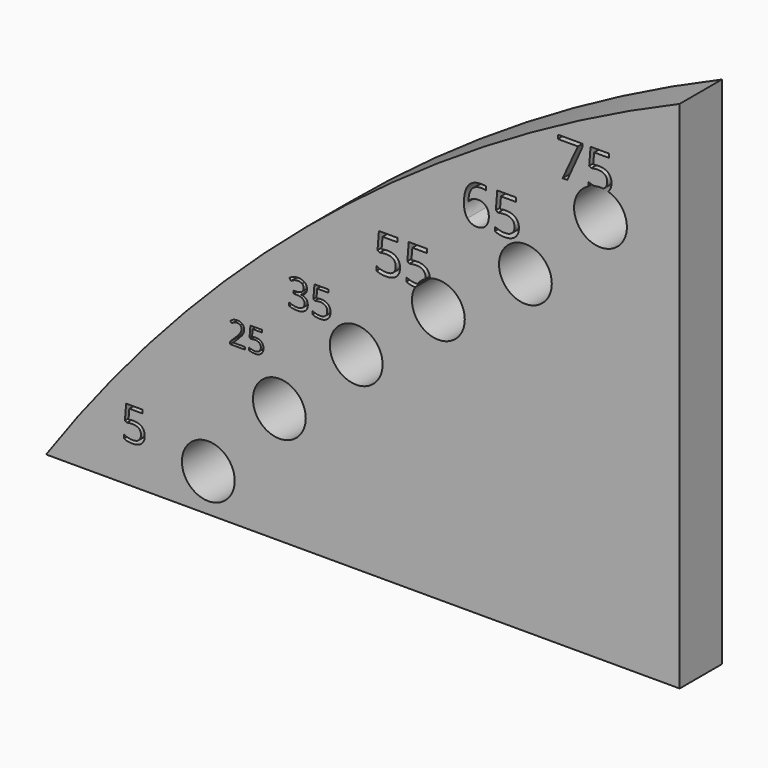
from build123d import *

# Parameters (mm, degrees)
F0_R     = 12.7
F1_DEPTH = 25.4


with BuildPart() as f1:
    # F0 (on Front) → F1 (new body)
    with BuildSketch(Plane.XZ):
        with BuildLine():
            Line((71.2218557991, -215.6666109828), (71.2218557991, 31.9377261585))
            ThreePointArc((71.2218557991, 31.9377261585), (-98.5594549429, -70.468114806), (-233.5781442009, -215.6666109828))
            Line((-233.5781442009, -215.6666109828), (71.2218557991, -215.6666109828))
        make_face()
        with BuildLine():
            add(Edge.make_bspline(
                [(-193.9291519359, -187.9756820696), (-192.6907105088, -187.7273038446), (-191.4591684768, -187.7273038446)],
                knots=[0, 0, 0, 1, 1, 1], degree=2))
            add(Edge.make_bspline(
                [(-191.4591684768, -187.7273038446), (-188.9684868323, -187.7273038446), (-187.5403120388, -188.9622955742)],
                knots=[0, 0, 0, 1, 1, 1], degree=2))
            add(Edge.make_bspline(
                [(-187.5403120388, -188.9622955742), (-186.1121372454, -190.1972873038), (-186.1121372454, -192.3429991914)],
                knots=[0, 0, 0, 1, 1, 1], degree=2))
            add(Edge.make_bspline(
                [(-186.1121372454, -192.3429991914), (-186.1121372454, -194.7888347676), (-187.6696756977, -196.1807877365)],
                knots=[0, 0, 0, 1, 1, 1], degree=2))
            add(Edge.make_bspline(
                [(-187.6696756977, -196.1807877365), (-189.2272141499, -197.5727407054), (-191.9662740194, -197.5727407054)],
                knots=[0, 0, 0, 1, 1, 1], degree=2))
            add(Edge.make_bspline(
                [(-191.9662740194, -197.5727407054), (-194.6294405423, -197.5727407054), (-196.0300177552, -196.720665406)],
                knots=[0, 0, 0, 1, 1, 1], degree=2))
            Line((-196.0300177552, -196.720665406), (-196.0300177552, -194.9958166217))
            add(Edge.make_bspline(
                [(-196.0300177552, -194.9958166217), (-195.2779836852, -195.4787742813), (-194.1568319754, -195.7547500868)],
                knots=[0, 0, 0, 1, 1, 1], degree=2))
            add(Edge.make_bspline(
                [(-194.1568319754, -195.7547500868), (-193.0356802656, -196.0307258923), (-191.945575834, -196.0307258923)],
                knots=[0, 0, 0, 1, 1, 1], degree=2))
            add(Edge.make_bspline(
                [(-191.945575834, -196.0307258923), (-190.0482421712, -196.0307258923), (-188.9978092616, -195.1355293732)],
                knots=[0, 0, 0, 1, 1, 1], degree=2))
            add(Edge.make_bspline(
                [(-188.9978092616, -195.1355293732), (-187.9473763519, -194.2403328542), (-187.9473763519, -192.546531348)],
                knots=[0, 0, 0, 1, 1, 1], degree=2))
            add(Edge.make_bspline(
                [(-187.9473763519, -192.546531348), (-187.9473763519, -189.2486204724), (-191.9869722048, -189.2486204724)],
                knots=[0, 0, 0, 1, 1, 1], degree=2))
            add(Edge.make_bspline(
                [(-191.9869722048, -189.2486204724), (-193.0115323827, -189.2486204724), (-194.7260320743, -189.5625429511)],
                knots=[0, 0, 0, 1, 1, 1], degree=2))
            Line((-194.7260320743, -189.5625429511), (-195.6540007202, -188.9691949693))
            Line((-195.6540007202, -188.9691949693), (-195.0606527384, -181.5937415676))
            Line((-195.0606527384, -181.5937415676), (-187.2229398625, -181.5937415676))
            Line((-187.2229398625, -181.5937415676), (-187.2229398625, -183.2426970054))
            Line((-187.2229398625, -183.2426970054), (-193.528987018, -183.2426970054))
            Line((-193.528987018, -183.2426970054), (-193.9291519359, -187.9756820696))
        make_face(mode=Mode.SUBTRACT)
        with Locations((-155.5425471375, -197.3554097586)):
            Circle(F0_R, mode=Mode.SUBTRACT)
        with Locations((-121.3554783743, -159.7803604655)):
            Circle(F0_R, mode=Mode.SUBTRACT)
        with BuildLine():
            Line((-137.816186865, -139.0096638804), (-137.816186865, -140.176743269))
            Line((-137.816186865, -140.176743269), (-145.1025473717, -140.176743269))
            Line((-145.1025473717, -140.176743269), (-145.1025473717, -139.0921601366))
            Line((-145.1025473717, -139.0921601366), (-142.1836357202, -136.1586903222))
            add(Edge.make_bspline(
                [(-142.1836357202, -136.1586903222), (-140.8491374588, -134.8072075376), (-140.4245243757, -134.2309469247)],
                knots=[0, 0, 0, 1, 1, 1], degree=2))
            add(Edge.make_bspline(
                [(-140.4245243757, -134.2309469247), (-139.9999112926, -133.6546863119), (-139.787604751, -133.108755205)],
                knots=[0, 0, 0, 1, 1, 1], degree=2))
            add(Edge.make_bspline(
                [(-139.787604751, -133.108755205), (-139.5752982094, -132.5628240981), (-139.5752982094, -131.934396735)],
                knots=[0, 0, 0, 1, 1, 1], degree=2))
            add(Edge.make_bspline(
                [(-139.5752982094, -131.934396735), (-139.5752982094, -131.0463488011), (-140.1139502349, -130.5271076595)],
                knots=[0, 0, 0, 1, 1, 1], degree=2))
            add(Edge.make_bspline(
                [(-140.1139502349, -130.5271076595), (-140.6526022604, -130.0078665178), (-141.6085882876, -130.0078665178)],
                knots=[0, 0, 0, 1, 1, 1], degree=2))
            add(Edge.make_bspline(
                [(-141.6085882876, -130.0078665178), (-142.2976746625, -130.0078665178), (-142.9163965836, -130.2359444025)],
                knots=[0, 0, 0, 1, 1, 1], degree=2))
            add(Edge.make_bspline(
                [(-142.9163965836, -130.2359444025), (-143.5351185048, -130.4640222871), (-144.292142973, -131.0633333245)],
                knots=[0, 0, 0, 1, 1, 1], degree=2))
            Line((-144.292142973, -131.0633333245), (-144.9593921037, -130.2068280768))
            add(Edge.make_bspline(
                [(-144.9593921037, -130.2068280768), (-143.4283586439, -128.9329888273), (-141.6231464504, -128.9329888273)],
                knots=[0, 0, 0, 1, 1, 1], degree=2))
            add(Edge.make_bspline(
                [(-141.6231464504, -128.9329888273), (-140.0605703044, -128.9329888273), (-139.1737355508, -129.7324746039)],
                knots=[0, 0, 0, 1, 1, 1], degree=2))
            add(Edge.make_bspline(
                [(-139.1737355508, -129.7324746039), (-138.2869007971, -130.5319603804), (-138.2869007971, -131.8810168046)],
                knots=[0, 0, 0, 1, 1, 1], degree=2))
            add(Edge.make_bspline(
                [(-138.2869007971, -131.8810168046), (-138.2869007971, -132.9364836112), (-138.8789327531, -133.9676868132)],
                knots=[0, 0, 0, 1, 1, 1], degree=2))
            add(Edge.make_bspline(
                [(-138.8789327531, -133.9676868132), (-139.470964709, -134.9988900151), (-141.0917735064, -136.5760243239)],
                knots=[0, 0, 0, 1, 1, 1], degree=2))
            Line((-141.0917735064, -136.5760243239), (-143.5181339815, -138.9490048686))
            Line((-143.5181339815, -138.9490048686), (-143.5181339815, -139.0096638804))
            Line((-143.5181339815, -139.0096638804), (-137.816186865, -139.0096638804))
        make_face(mode=Mode.SUBTRACT)
        with BuildLine():
            add(Edge.make_bspline(
                [(-134.496925735, -133.5794691372), (-133.6258623245, -133.4047711829), (-132.7596516348, -133.4047711829)],
                knots=[0, 0, 0, 1, 1, 1], degree=2))
            add(Edge.make_bspline(
                [(-132.7596516348, -133.4047711829), (-131.0078193718, -133.4047711829), (-130.0033061351, -134.273408233)],
                knots=[0, 0, 0, 1, 1, 1], degree=2))
            add(Edge.make_bspline(
                [(-130.0033061351, -134.273408233), (-128.9987928984, -135.1420452831), (-128.9987928984, -136.6512414986)],
                knots=[0, 0, 0, 1, 1, 1], degree=2))
            add(Edge.make_bspline(
                [(-128.9987928984, -136.6512414986), (-128.9987928984, -138.3715310755), (-130.0942946529, -139.3505675272)],
                knots=[0, 0, 0, 1, 1, 1], degree=2))
            add(Edge.make_bspline(
                [(-130.0942946529, -139.3505675272), (-131.1897964074, -140.3296039789), (-133.1163266247, -140.3296039789)],
                knots=[0, 0, 0, 1, 1, 1], degree=2))
            add(Edge.make_bspline(
                [(-133.1163266247, -140.3296039789), (-134.9894769115, -140.3296039789), (-135.9745792644, -139.7302929415)],
                knots=[0, 0, 0, 1, 1, 1], degree=2))
            Line((-135.9745792644, -139.7302929415), (-135.9745792644, -138.517112704))
            add(Edge.make_bspline(
                [(-135.9745792644, -138.517112704), (-135.4456326808, -138.8568031705), (-134.6570655264, -139.0509120085)],
                knots=[0, 0, 0, 1, 1, 1], degree=2))
            add(Edge.make_bspline(
                [(-134.6570655264, -139.0509120085), (-133.868498372, -139.2450208465), (-133.1017684618, -139.2450208465)],
                knots=[0, 0, 0, 1, 1, 1], degree=2))
            add(Edge.make_bspline(
                [(-133.1017684618, -139.2450208465), (-131.7672702005, -139.2450208465), (-131.0284434359, -138.6153803032)],
                knots=[0, 0, 0, 1, 1, 1], degree=2))
            add(Edge.make_bspline(
                [(-131.0284434359, -138.6153803032), (-130.2896166712, -137.9857397599), (-130.2896166712, -136.7943967667)],
                knots=[0, 0, 0, 1, 1, 1], degree=2))
            add(Edge.make_bspline(
                [(-130.2896166712, -136.7943967667), (-130.2896166712, -134.4747961525), (-133.1308847875, -134.4747961525)],
                knots=[0, 0, 0, 1, 1, 1], degree=2))
            add(Edge.make_bspline(
                [(-133.1308847875, -134.4747961525), (-133.8515138486, -134.4747961525), (-135.0574150048, -134.6955949557)],
                knots=[0, 0, 0, 1, 1, 1], degree=2))
            Line((-135.0574150048, -134.6955949557), (-135.7101059726, -134.278260954))
            Line((-135.7101059726, -134.278260954), (-135.2927719709, -129.0907022582))
            Line((-135.2927719709, -129.0907022582), (-129.7800809714, -129.0907022582))
            Line((-129.7800809714, -129.0907022582), (-129.7800809714, -130.2505025653))
            Line((-129.7800809714, -130.2505025653), (-134.2154679199, -130.2505025653))
            Line((-134.2154679199, -130.2505025653), (-134.496925735, -133.5794691372))
        make_face(mode=Mode.SUBTRACT)
        with Locations((-84.3888001983, -124.9363551757)):
            Circle(F0_R, mode=Mode.SUBTRACT)
        with BuildLine():
            add(Edge.make_bspline(
                [(-109.193339226, -102.3061165437), (-108.0913973662, -103.21544255), (-108.0913973662, -104.8011637629)],
                knots=[0, 0, 0, 1, 1, 1], degree=2))
            add(Edge.make_bspline(
                [(-108.0913973662, -104.8011637629), (-108.0913973662, -106.1091597916), (-108.8245321266, -106.9393490519)],
                knots=[0, 0, 0, 1, 1, 1], degree=2))
            add(Edge.make_bspline(
                [(-108.8245321266, -106.9393490519), (-109.557666887, -107.7695383121), (-110.9014984233, -108.0502497886)],
                knots=[0, 0, 0, 1, 1, 1], degree=2))
            Line((-110.9014984233, -108.0502497886), (-110.9014984233, -108.1249070962))
            add(Edge.make_bspline(
                [(-110.9014984233, -108.1249070962), (-109.2590376567, -108.3279749728), (-108.4661770502, -109.1686162561)],
                knots=[0, 0, 0, 1, 1, 1], degree=2))
            add(Edge.make_bspline(
                [(-108.4661770502, -109.1686162561), (-107.6733164438, -110.0092575394), (-107.6733164438, -111.3710068296)],
                knots=[0, 0, 0, 1, 1, 1], degree=2))
            add(Edge.make_bspline(
                [(-107.6733164438, -111.3710068296), (-107.6733164438, -113.3210557034), (-109.026106857, -114.3722305941)],
                knots=[0, 0, 0, 1, 1, 1], degree=2))
            add(Edge.make_bspline(
                [(-109.026106857, -114.3722305941), (-110.3788972703, -115.4234054848), (-112.869465051, -115.4234054848)],
                knots=[0, 0, 0, 1, 1, 1], degree=2))
            add(Edge.make_bspline(
                [(-112.869465051, -115.4234054848), (-113.953489157, -115.4234054848), (-114.8538562864, -115.2591594081)],
                knots=[0, 0, 0, 1, 1, 1], degree=2))
            add(Edge.make_bspline(
                [(-114.8538562864, -115.2591594081), (-115.7542234157, -115.0949133314), (-116.6023304298, -114.6857912859)],
                knots=[0, 0, 0, 1, 1, 1], degree=2))
            Line((-116.6023304298, -114.6857912859), (-116.6023304298, -113.2105628882))
            add(Edge.make_bspline(
                [(-116.6023304298, -113.2105628882), (-115.7154016158, -113.6495478568), (-114.712007402, -113.8779992179)],
                knots=[0, 0, 0, 1, 1, 1], degree=2))
            add(Edge.make_bspline(
                [(-114.712007402, -113.8779992179), (-113.7086131882, -114.1064505791), (-112.8127254973, -114.1064505791)],
                knots=[0, 0, 0, 1, 1, 1], degree=2))
            add(Edge.make_bspline(
                [(-112.8127254973, -114.1064505791), (-109.2769554105, -114.1064505791), (-109.2769554105, -111.3351713219)],
                knots=[0, 0, 0, 1, 1, 1], degree=2))
            add(Edge.make_bspline(
                [(-109.2769554105, -111.3351713219), (-109.2769554105, -108.8505761258), (-113.1770531582, -108.8505761258)],
                knots=[0, 0, 0, 1, 1, 1], degree=2))
            Line((-113.1770531582, -108.8505761258), (-114.5208846946, -108.8505761258))
            Line((-114.5208846946, -108.8505761258), (-114.5208846946, -107.5186897587))
            Line((-114.5208846946, -107.5186897587), (-113.1591354044, -107.5186897587))
            add(Edge.make_bspline(
                [(-113.1591354044, -107.5186897587), (-111.5644553146, -107.5186897587), (-110.6312389699, -106.8139247751)],
                knots=[0, 0, 0, 1, 1, 1], degree=2))
            add(Edge.make_bspline(
                [(-110.6312389699, -106.8139247751), (-109.6980226252, -106.1091597916), (-109.6980226252, -104.8579033167)],
                knots=[0, 0, 0, 1, 1, 1], degree=2))
            add(Edge.make_bspline(
                [(-109.6980226252, -104.8579033167), (-109.6980226252, -103.8604816875), (-110.3833767087, -103.2900998576)],
                knots=[0, 0, 0, 1, 1, 1], degree=2))
            add(Edge.make_bspline(
                [(-110.3833767087, -103.2900998576), (-111.0687307923, -102.7197180277), (-112.2453299597, -102.7197180277)],
                knots=[0, 0, 0, 1, 1, 1], degree=2))
            add(Edge.make_bspline(
                [(-112.2453299597, -102.7197180277), (-113.1412176506, -102.7197180277), (-113.934078257, -102.9631008504)],
                knots=[0, 0, 0, 1, 1, 1], degree=2))
            add(Edge.make_bspline(
                [(-113.934078257, -102.9631008504), (-114.7269388635, -103.2064836731), (-115.7452645388, -103.8604816875)],
                knots=[0, 0, 0, 1, 1, 1], degree=2))
            Line((-115.7452645388, -103.8604816875), (-116.5276731222, -102.8152793814))
            add(Edge.make_bspline(
                [(-116.5276731222, -102.8152793814), (-115.6885249851, -102.1523224901), (-114.5925557099, -101.7745565138)],
                knots=[0, 0, 0, 1, 1, 1], degree=2))
            add(Edge.make_bspline(
                [(-114.5925557099, -101.7745565138), (-113.4965864346, -101.3967905375), (-112.2811654673, -101.3967905375)],
                knots=[0, 0, 0, 1, 1, 1], degree=2))
            add(Edge.make_bspline(
                [(-112.2811654673, -101.3967905375), (-110.2952810858, -101.3967905375), (-109.193339226, -102.3061165437)],
                knots=[0, 0, 0, 1, 1, 1], degree=2))
        make_face(mode=Mode.SUBTRACT)
        with BuildLine():
            add(Edge.make_bspline(
                [(-103.4925072195, -107.1155402978), (-102.4204282827, -106.9005272519), (-101.3543219306, -106.9005272519)],
                knots=[0, 0, 0, 1, 1, 1], degree=2))
            add(Edge.make_bspline(
                [(-101.3543219306, -106.9005272519), (-99.1982188878, -106.9005272519), (-97.9618938743, -107.9696198964)],
                knots=[0, 0, 0, 1, 1, 1], degree=2))
            add(Edge.make_bspline(
                [(-97.9618938743, -107.9696198964), (-96.7255688609, -109.0387125409), (-96.7255688609, -110.8961863534)],
                knots=[0, 0, 0, 1, 1, 1], degree=2))
            add(Edge.make_bspline(
                [(-96.7255688609, -110.8961863534), (-96.7255688609, -113.0134675962), (-98.0738798357, -114.2184365405)],
                knots=[0, 0, 0, 1, 1, 1], degree=2))
            add(Edge.make_bspline(
                [(-98.0738798357, -114.2184365405), (-99.4221908105, -115.4234054848), (-101.7933068991, -115.4234054848)],
                knots=[0, 0, 0, 1, 1, 1], degree=2))
            add(Edge.make_bspline(
                [(-101.7933068991, -115.4234054848), (-104.098724557, -115.4234054848), (-105.3111592321, -114.6857912859)],
                knots=[0, 0, 0, 1, 1, 1], degree=2))
            Line((-105.3111592321, -114.6857912859), (-105.3111592321, -113.1926451344))
            add(Edge.make_bspline(
                [(-105.3111592321, -113.1926451344), (-104.66014751, -113.6107260568), (-103.6896025115, -113.8496294411)],
                knots=[0, 0, 0, 1, 1, 1], degree=2))
            add(Edge.make_bspline(
                [(-103.6896025115, -113.8496294411), (-102.719057513, -114.0885328253), (-101.7753891453, -114.0885328253)],
                knots=[0, 0, 0, 1, 1, 1], degree=2))
            add(Edge.make_bspline(
                [(-101.7753891453, -114.0885328253), (-100.1329283786, -114.0885328253), (-99.2236023724, -113.3135899727)],
                knots=[0, 0, 0, 1, 1, 1], degree=2))
            add(Edge.make_bspline(
                [(-99.2236023724, -113.3135899727), (-98.3142763661, -112.53864712), (-98.3142763661, -111.0723775993)],
                knots=[0, 0, 0, 1, 1, 1], degree=2))
            add(Edge.make_bspline(
                [(-98.3142763661, -111.0723775993), (-98.3142763661, -108.2174821576), (-101.8112246529, -108.2174821576)],
                knots=[0, 0, 0, 1, 1, 1], degree=2))
            add(Edge.make_bspline(
                [(-101.8112246529, -108.2174821576), (-102.6981534669, -108.2174821576), (-104.1823407415, -108.4892347571)],
                knots=[0, 0, 0, 1, 1, 1], degree=2))
            Line((-104.1823407415, -108.4892347571), (-104.985653371, -107.975592481))
            Line((-104.985653371, -107.975592481), (-104.4720110949, -101.5908995372))
            Line((-104.4720110949, -101.5908995372), (-97.6871549824, -101.5908995372))
            Line((-97.6871549824, -101.5908995372), (-97.6871549824, -103.018347258))
            Line((-97.6871549824, -103.018347258), (-103.1460973124, -103.018347258))
            Line((-103.1460973124, -103.018347258), (-103.4925072195, -107.1155402978))
        make_face(mode=Mode.SUBTRACT)
        with BuildLine():
            add(Edge.make_bspline(
                [(-72.1803385305, -76.1964252678), (-70.7732356516, -75.9142207907), (-69.3739717859, -75.9142207907)],
                knots=[0, 0, 0, 1, 1, 1], degree=2))
            add(Edge.make_bspline(
                [(-69.3739717859, -75.9142207907), (-66.5440880014, -75.9142207907), (-64.921412258, -77.317404163)],
                knots=[0, 0, 0, 1, 1, 1], degree=2))
            add(Edge.make_bspline(
                [(-64.921412258, -77.317404163), (-63.2987365146, -78.7205875353), (-63.2987365146, -81.1585206571)],
                knots=[0, 0, 0, 1, 1, 1], degree=2))
            add(Edge.make_bspline(
                [(-63.2987365146, -81.1585206571), (-63.2987365146, -83.9374508553), (-65.0683937565, -85.5189717792)],
                knots=[0, 0, 0, 1, 1, 1], degree=2))
            add(Edge.make_bspline(
                [(-65.0683937565, -85.5189717792), (-66.8380509984, -87.100492703), (-69.95013926, -87.100492703)],
                knots=[0, 0, 0, 1, 1, 1], degree=2))
            add(Edge.make_bspline(
                [(-69.95013926, -87.100492703), (-72.9759983757, -87.100492703), (-74.5673180661, -86.1323745663)],
                knots=[0, 0, 0, 1, 1, 1], degree=2))
            Line((-74.5673180661, -86.1323745663), (-74.5673180661, -84.1726212529))
            add(Edge.make_bspline(
                [(-74.5673180661, -84.1726212529), (-73.7128656215, -84.7213521807), (-72.4390259679, -85.0349127108)],
                knots=[0, 0, 0, 1, 1, 1], degree=2))
            add(Edge.make_bspline(
                [(-72.4390259679, -85.0349127108), (-71.1651863142, -85.3484732409), (-69.9266222202, -85.3484732409)],
                knots=[0, 0, 0, 1, 1, 1], degree=2))
            add(Edge.make_bspline(
                [(-69.9266222202, -85.3484732409), (-67.7708935756, -85.3484732409), (-66.5774038078, -84.3313612713)],
                knots=[0, 0, 0, 1, 1, 1], degree=2))
            add(Edge.make_bspline(
                [(-66.5774038078, -84.3313612713), (-65.38391404, -83.3142493017), (-65.38391404, -81.389771548)],
                knots=[0, 0, 0, 1, 1, 1], degree=2))
            add(Edge.make_bspline(
                [(-65.38391404, -81.389771548), (-65.38391404, -77.642723213), (-69.9736562997, -77.642723213)],
                knots=[0, 0, 0, 1, 1, 1], degree=2))
            add(Edge.make_bspline(
                [(-69.9736562997, -77.642723213), (-71.1377497678, -77.642723213), (-73.0857445613, -77.999398316)],
                knots=[0, 0, 0, 1, 1, 1], degree=2))
            Line((-73.0857445613, -77.999398316), (-74.1400918438, -77.3252431762))
            Line((-74.1400918438, -77.3252431762), (-73.465936704, -68.9453380085))
            Line((-73.465936704, -68.9453380085), (-64.5608176484, -68.9453380085))
            Line((-64.5608176484, -68.9453380085), (-64.5608176484, -70.8188621761))
            Line((-64.5608176484, -70.8188621761), (-71.7256757618, -70.8188621761))
            Line((-71.7256757618, -70.8188621761), (-72.1803385305, -76.1964252678))
        make_face(mode=Mode.SUBTRACT)
        with BuildLine():
            ThreePointArc((-48.9588281839, -81.0080276101), (-37.4696554508, -82.7001888766), (-32.1600294727, -93.0284206622))
            ThreePointArc((-32.1600294727, -93.0284206622), (-47.9170389164, -105.3550054796), (-56.0883276241, -87.0941708676))
            add(Edge.make_bspline(
                [(-56.0883276241, -87.0941708676), (-58.7631158956, -87.022260462), (-60.2258433193, -86.1323745663)],
                knots=[0.0808085688, 0.0808085688, 0.0808085688, 1, 1, 1], degree=2))
            Line((-60.2258433193, -86.1323745663), (-60.2258433193, -84.1726212529))
            add(Edge.make_bspline(
                [(-60.2258433193, -84.1726212529), (-59.3713908747, -84.7213521807), (-58.0975512211, -85.0349127108)],
                knots=[0, 0, 0, 1, 1, 1], degree=2))
            add(Edge.make_bspline(
                [(-58.0975512211, -85.0349127108), (-56.8237115674, -85.3484732409), (-55.5851474734, -85.3484732409)],
                knots=[0, 0, 0, 1, 1, 1], degree=2))
            add(Edge.make_bspline(
                [(-55.5851474734, -85.3484732409), (-55.2602491093, -85.3484732409), (-54.9572077055, -85.3253698552)],
                knots=[0, 0, 0, 0.150713943, 0.150713943, 0.150713943], degree=2))
            ThreePointArc((-54.9572077055, -85.3253698552), (-53.1862514873, -83.438633023), (-51.0696266153, -81.9500226134))
            add(Edge.make_bspline(
                [(-51.0696266153, -81.9500226134), (-51.0424392932, -81.6802318345), (-51.0424392932, -81.389771548)],
                knots=[0.8490705928, 0.8490705928, 0.8490705928, 1, 1, 1], degree=2))
            add(Edge.make_bspline(
                [(-51.0424392932, -81.389771548), (-51.0424392932, -77.642723213), (-55.6321815529, -77.642723213)],
                knots=[0, 0, 0, 1, 1, 1], degree=2))
            add(Edge.make_bspline(
                [(-55.6321815529, -77.642723213), (-56.796275021, -77.642723213), (-58.7442698145, -77.999398316)],
                knots=[0, 0, 0, 1, 1, 1], degree=2))
            Line((-58.7442698145, -77.999398316), (-59.798617097, -77.3252431762))
            Line((-59.798617097, -77.3252431762), (-59.1244619573, -68.9453380085))
            Line((-59.1244619573, -68.9453380085), (-50.2193429016, -68.9453380085))
            Line((-50.2193429016, -68.9453380085), (-50.2193429016, -70.8188621761))
            Line((-50.2193429016, -70.8188621761), (-57.384201015, -70.8188621761))
            Line((-57.384201015, -70.8188621761), (-57.8388637837, -76.1964252678))
            add(Edge.make_bspline(
                [(-57.8388637837, -76.1964252678), (-56.4317609048, -75.9142207907), (-55.0324970391, -75.9142207907)],
                knots=[0, 0, 0, 1, 1, 1], degree=2))
            add(Edge.make_bspline(
                [(-55.0324970391, -75.9142207907), (-52.2026132546, -75.9142207907), (-50.5799375112, -77.317404163)],
                knots=[0, 0, 0, 1, 1, 1], degree=2))
            add(Edge.make_bspline(
                [(-50.5799375112, -77.317404163), (-49.0076778894, -78.6769909857), (-48.9588281839, -81.0080276101)],
                knots=[0, 0, 0, 0.968930255, 0.968930255, 0.968930255], degree=2))
        make_face(mode=Mode.SUBTRACT)
        with BuildLine():
            add(Edge.make_bspline(
                [(-30.8928406183, -49.7392361164), (-32.5617593968, -47.598360764), (-32.5617593968, -43.7825416556)],
                knots=[0, 0, 0, 1, 1, 1], degree=2))
            add(Edge.make_bspline(
                [(-32.5617593968, -43.7825416556), (-32.5617593968, -38.372111825), (-30.4590422355, -35.6930051457)],
                knots=[0, 0, 0, 1, 1, 1], degree=2))
            add(Edge.make_bspline(
                [(-30.4590422355, -35.6930051457), (-28.3563250742, -33.0138984664), (-24.2392570887, -33.0138984664)],
                knots=[0, 0, 0, 1, 1, 1], degree=2))
            add(Edge.make_bspline(
                [(-24.2392570887, -33.0138984664), (-22.8213790411, -33.0138984664), (-22.0059987474, -33.2508809163)],
                knots=[0, 0, 0, 1, 1, 1], degree=2))
            Line((-22.0059987474, -33.2508809163), (-22.0059987474, -35.0463242231))
            add(Edge.make_bspline(
                [(-22.0059987474, -35.0463242231), (-22.9740118054, -34.7330253911), (-24.2151571786, -34.7330253911)],
                knots=[0, 0, 0, 1, 1, 1], degree=2))
            add(Edge.make_bspline(
                [(-24.2151571786, -34.7330253911), (-27.167396173, -34.7330253911), (-28.7238487041, -36.5706435407)],
                knots=[0, 0, 0, 1, 1, 1], degree=2))
            add(Edge.make_bspline(
                [(-28.7238487041, -36.5706435407), (-30.2803012351, -38.4082616903), (-30.4289173478, -42.3526136529)],
                knots=[0, 0, 0, 1, 1, 1], degree=2))
            Line((-30.4289173478, -42.3526136529), (-30.2803012351, -42.3526136529))
            add(Edge.make_bspline(
                [(-30.2803012351, -42.3526136529), (-28.8985730527, -40.191655042), (-25.9101841931, -40.191655042)],
                knots=[0, 0, 0, 1, 1, 1], degree=2))
            add(Edge.make_bspline(
                [(-25.9101841931, -40.191655042), (-23.4359267501, -40.191655042), (-22.0120237249, -41.6858494718)],
                knots=[0, 0, 0, 1, 1, 1], degree=2))
            add(Edge.make_bspline(
                [(-22.0120237249, -41.6858494718), (-20.5881206997, -43.1800439016), (-20.5881206997, -45.7386510301)],
                knots=[0, 0, 0, 1, 1, 1], degree=2))
            add(Edge.make_bspline(
                [(-20.5881206997, -45.7386510301), (-20.5881206997, -48.6025236873), (-22.1505982083, -50.2413175781)],
                knots=[0, 0, 0, 1, 1, 1], degree=2))
            add(Edge.make_bspline(
                [(-22.1505982083, -50.2413175781), (-23.7130757169, -51.8801114689), (-26.3761157895, -51.8801114689)],
                knots=[0, 0, 0, 1, 1, 1], degree=2))
            add(Edge.make_bspline(
                [(-26.3761157895, -51.8801114689), (-29.2239218399, -51.8801114689), (-30.8928406183, -49.7392361164)],
                knots=[0, 0, 0, 1, 1, 1], degree=2))
        make_face(mode=Mode.SUBTRACT)
        with BuildLine():
            add(Edge.make_bspline(
                [(-15.2178573861, -40.7057864587), (-13.7758794283, -40.4165875368), (-12.3419347738, -40.4165875368)],
                knots=[0, 0, 0, 1, 1, 1], degree=2))
            add(Edge.make_bspline(
                [(-12.3419347738, -40.4165875368), (-9.4419122514, -40.4165875368), (-7.7790184505, -41.8545488429)],
                knots=[0, 0, 0, 1, 1, 1], degree=2))
            add(Edge.make_bspline(
                [(-7.7790184505, -41.8545488429), (-6.1161246495, -43.292510149), (-6.1161246495, -45.7908675021)],
                knots=[0, 0, 0, 1, 1, 1], degree=2))
            add(Edge.make_bspline(
                [(-6.1161246495, -45.7908675021), (-6.1161246495, -48.6386735525), (-7.929642889, -50.2593925107)],
                knots=[0, 0, 0, 1, 1, 1], degree=2))
            add(Edge.make_bspline(
                [(-7.929642889, -50.2593925107), (-9.7431611284, -51.8801114689), (-12.9323825727, -51.8801114689)],
                knots=[0, 0, 0, 1, 1, 1], degree=2))
            add(Edge.make_bspline(
                [(-12.9323825727, -51.8801114689), (-16.0332376798, -51.8801114689), (-17.6639982672, -50.8879985007)],
                knots=[0, 0, 0, 1, 1, 1], degree=2))
            Line((-17.6639982672, -50.8879985007), (-17.6639982672, -48.8796726541))
            add(Edge.make_bspline(
                [(-17.6639982672, -48.8796726541), (-16.7883681981, -49.4420038912), (-15.4829563978, -49.7633360266)],
                knots=[0, 0, 0, 1, 1, 1], degree=2))
            add(Edge.make_bspline(
                [(-15.4829563978, -49.7633360266), (-14.1775445976, -50.0846681621), (-12.9082826625, -50.0846681621)],
                knots=[0, 0, 0, 1, 1, 1], degree=2))
            add(Edge.make_bspline(
                [(-12.9082826625, -50.0846681621), (-10.6991242314, -50.0846681621), (-9.4760537908, -49.0423470477)],
                knots=[0, 0, 0, 1, 1, 1], degree=2))
            add(Edge.make_bspline(
                [(-9.4760537908, -49.0423470477), (-8.2529833503, -48.0000259333), (-8.2529833503, -46.027849952)],
                knots=[0, 0, 0, 1, 1, 1], degree=2))
            add(Edge.make_bspline(
                [(-8.2529833503, -46.027849952), (-8.2529833503, -42.1879309334), (-12.9564824829, -42.1879309334)],
                knots=[0, 0, 0, 1, 1, 1], degree=2))
            add(Edge.make_bspline(
                [(-12.9564824829, -42.1879309334), (-14.1494280357, -42.1879309334), (-16.1457039272, -42.5534462375)],
                knots=[0, 0, 0, 1, 1, 1], degree=2))
            Line((-16.1457039272, -42.5534462375), (-17.2261832326, -41.8625821463))
            Line((-17.2261832326, -41.8625821463), (-16.5353191414, -33.2749808265))
            Line((-16.5353191414, -33.2749808265), (-7.4094864947, -33.2749808265))
            Line((-7.4094864947, -33.2749808265), (-7.4094864947, -35.1949403358))
            Line((-7.4094864947, -35.1949403358), (-14.7519257897, -35.1949403358))
            Line((-14.7519257897, -35.1949403358), (-15.2178573861, -40.7057864587))
        make_face(mode=Mode.SUBTRACT)
        with Locations((-3.0017587547, -64.2443074658)):
            Circle(F0_R, mode=Mode.SUBTRACT)
        with BuildLine():
            ThreePointArc((36.8384239164, -16.3830062636), (43.3319100372, -20.9742218272), (45.8218557991, -28.5270221327))
            ThreePointArc((45.8218557991, -28.5270221327), (26.4834394207, -39.3539066332), (27.3617883997, -17.208381598))
            add(Edge.make_bspline(
                [(27.3617883997, -17.208381598), (27.3141385296, -17.1809759057), (27.2677224667, -17.152737562)],
                knots=[0.9705134514, 0.9705134514, 0.9705134514, 1, 1, 1], degree=2))
            Line((27.2677224667, -17.152737562), (27.2677224667, -15.2141370238))
            add(Edge.make_bspline(
                [(27.2677224667, -15.2141370238), (28.1129523014, -15.7569451745), (29.3730426512, -16.0671212606)],
                knots=[0, 0, 0, 1, 1, 1], degree=2))
            add(Edge.make_bspline(
                [(29.3730426512, -16.0671212606), (29.7038077142, -16.148540353), (30.0321684326, -16.2085874929)],
                knots=[0, 0, 0, 0.2624931324, 0.2624931324, 0.2624931324], degree=2))
            ThreePointArc((30.0321684326, -16.2085874929), (32.186684936, -15.8614998199), (34.3688142375, -15.8883871331))
            add(Edge.make_bspline(
                [(34.3688142375, -15.8883871331), (34.8137749168, -15.675935078), (35.171396861, -15.3711636674)],
                knots=[0.6970865633, 0.6970865633, 0.6970865633, 1, 1, 1], degree=2))
            add(Edge.make_bspline(
                [(35.171396861, -15.3711636674), (36.3520045887, -14.3650299881), (36.3520045887, -12.4613242596)],
                knots=[0, 0, 0, 1, 1, 1], degree=2))
            add(Edge.make_bspline(
                [(36.3520045887, -12.4613242596), (36.3520045887, -8.7547200305), (31.8118021283, -8.7547200305)],
                knots=[0, 0, 0, 1, 1, 1], degree=2))
            add(Edge.make_bspline(
                [(31.8118021283, -8.7547200305), (30.6602734086, -8.7547200305), (28.7333044736, -9.1075453285)],
                knots=[0, 0, 0, 1, 1, 1], degree=2))
            Line((28.7333044736, -9.1075453285), (27.6903373841, -8.4406667433))
            Line((27.6903373841, -8.4406667433), (28.3572159692, -0.151210842))
            Line((28.3572159692, -0.151210842), (37.1662168148, -0.151210842))
            Line((37.1662168148, -0.151210842), (37.1662168148, -2.0045129565))
            Line((37.1662168148, -2.0045129565), (30.0786932471, -2.0045129565))
            Line((30.0786932471, -2.0045129565), (29.6289379223, -7.3240328333))
            add(Edge.make_bspline(
                [(29.6289379223, -7.3240328333), (31.0208531087, -7.0448743558), (32.405013893, -7.0448743558)],
                knots=[0, 0, 0, 1, 1, 1], degree=2))
            add(Edge.make_bspline(
                [(32.405013893, -7.0448743558), (35.2043530701, -7.0448743558), (36.8095143158, -8.4329123412)],
                knots=[0, 0, 0, 1, 1, 1], degree=2))
            add(Edge.make_bspline(
                [(36.8095143158, -8.4329123412), (38.4146755614, -9.8209503265), (38.4146755614, -12.232569396)],
                knots=[0, 0, 0, 1, 1, 1], degree=2))
            add(Edge.make_bspline(
                [(38.4146755614, -12.232569396), (38.4146755614, -14.8410601195), (36.8384239164, -16.3830062636)],
                knots=[0, 0, 0, 0.9489093736, 0.9489093736, 0.9489093736], degree=2))
        make_face(mode=Mode.SUBTRACT)
        Polygon((17.1521048584, -17.8661425601), (14.9227142395, -17.8661425601), (22.2622558771, -2.0045129565), (12.6080251969, -2.0045129565), (12.6080251969, -0.151210842), (24.3947164691, -0.151210842), (24.3947164691, -1.7641264898), align=None, mode=Mode.SUBTRACT)
    extrude(amount=F1_DEPTH)


solid = f1.part
